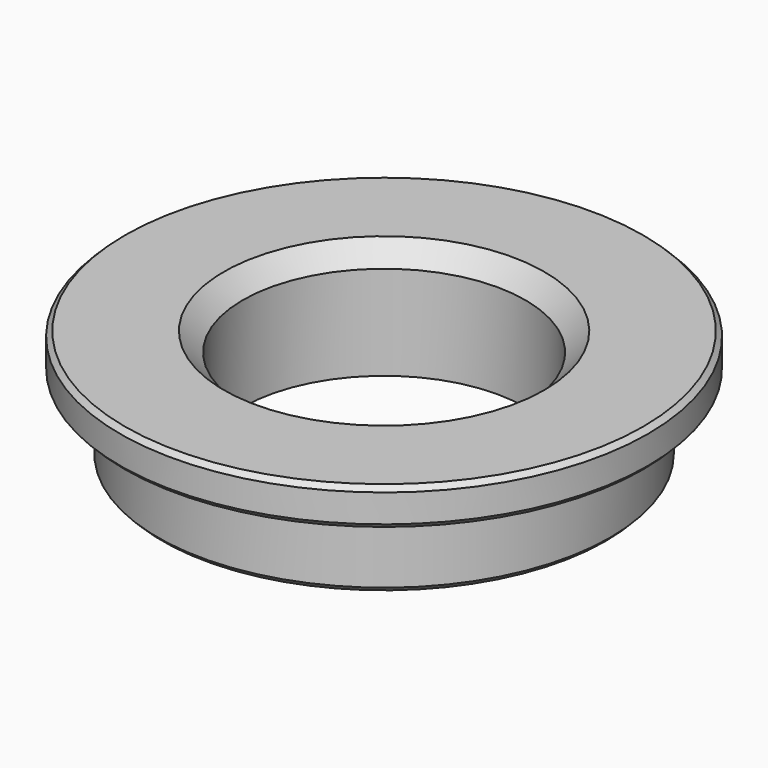
from build123d import *

# Parameters (mm, degrees)
F0_R        = 38.1
F0_R_2      = 23.8125
F1_DEPTH    = 12.7
F0_R_3      = 44.45
F1_FACE_R   = 38.1
F1_FACE_R_2 = 23.8125
F2_DEPTH    = 6.35
F3_SIZE     = 3.175
F4_SIZE     = 0.8128


with BuildPart() as f1:
    # F0 (on Top) → F1 (new body)
    with BuildSketch(Plane.XY):
        Circle(F0_R)
        Circle(F0_R_2, mode=Mode.SUBTRACT)
    extrude(amount=-F1_DEPTH)

    # F0 (on Top) + F1_face (on face) → F2 (join)
    with BuildSketch(Plane.XY):
        Circle(F0_R_3)
        Circle(F0_R, mode=Mode.SUBTRACT)
    with BuildSketch(Plane.XY):
        Circle(F1_FACE_R)
        Circle(F1_FACE_R_2, mode=Mode.SUBTRACT)
    extrude(amount=F2_DEPTH)

    # F3
    f3_edges = [f1.edges().sort_by_distance(p)[0] for p in [
        (-23.8125, 0, 6.35),
    ]]
    chamfer(f3_edges, length=F3_SIZE)

    # F4
    f4_edges = [f1.edges().sort_by_distance(p)[0] for p in [
        (-44.45, 0, 6.35),
        (-44.45, 0, 0),
        (-38.1, 0, -12.7),
    ]]
    chamfer(f4_edges, length=F4_SIZE)


solid = f1.part
